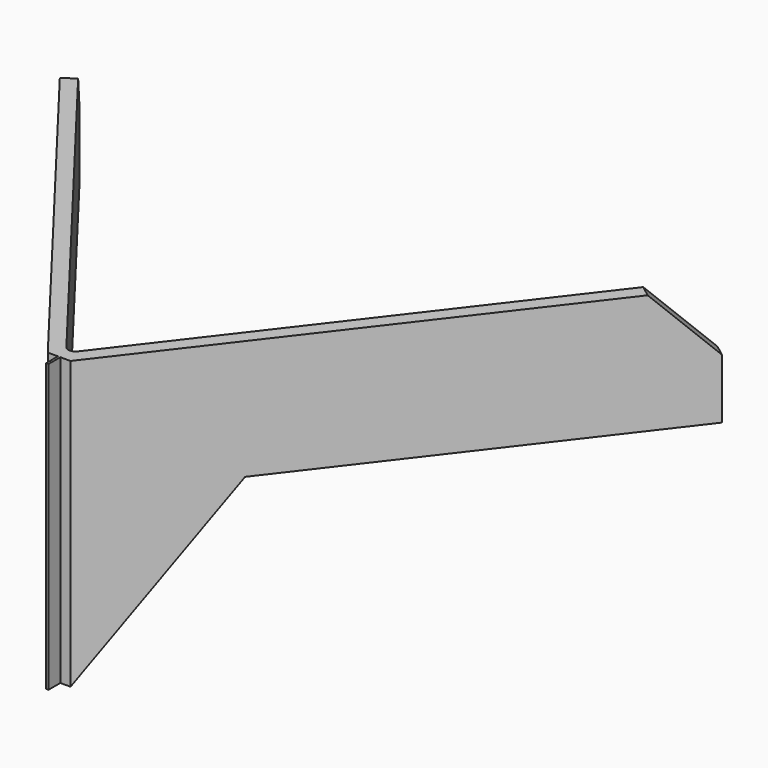
from build123d import *

# Parameters (mm, degrees)
F1_DEPTH      = 50
F1_DEPTH_BACK = 70
F2_SIZE       = 25
F4_DEPTH      = 25
F6_DEPTH      = 25
F7_W          = 9.5013230816
F7_H          = 6.2035092162
F8_DEPTH      = 150
F8_DEPTH_BACK = 150
F9_W          = 6.2035092162
F9_H          = 120
F10_DEPTH     = 0.5


with BuildPart() as f1:
    # F0 (on Top) → F1 (new body, two sides)
    with BuildSketch(Plane.XY) as f1_sk:
        with BuildLine():
            Line((-133.4287243432, 183.7437768202), (-138.188844385, 180.0912082461))
            Line((-138.188844385, 180.0912082461), (-4.7601200417, 6.2035092162))
            ThreePointArc((-4.7601200417, 6.2035092162), (0, 3.8560777902), (4.7601200417, 6.2035092162))
            Line((4.7601200417, 6.2035092162), (138.188844385, 180.0912082461))
            Line((138.188844385, 180.0912082461), (133.4287243432, 183.7437768202))
            Line((133.4287243432, 183.7437768202), (2.3800600209, 12.9578323983))
            ThreePointArc((2.3800600209, 12.9578323983), (0, 11.7841166853), (-2.3800600209, 12.9578323983))
            Line((-2.3800600209, 12.9578323983), (-133.4287243432, 183.7437768202))
        make_face()
    extrude(amount=F1_DEPTH)
    extrude(f1_sk.sketch, amount=-F1_DEPTH_BACK)

    # F2
    f2_edges = [f1.edges().sort_by_distance(p)[0] for p in [
        (-135.808784, 181.917493, 50),
        (135.808784, 181.917493, 50),
    ]]
    chamfer(f2_edges, length=F2_SIZE)

    # F3 (on face) → F4 (cut)
    with BuildSketch(Plane(origin=(0, 0, 0), x_dir=(0.608761429, -0.7933533403, 0), z_dir=(-0.7933533403, -0.608761429, 0))):
        Polygon((-66.5563264195, 0), (-227, 0), (-227, -70), (-7.819352237, -70), align=None)
    extrude(amount=-F4_DEPTH, mode=Mode.SUBTRACT)

    # F5 (on face) → F6 (cut)
    with BuildSketch(Plane(origin=(0, 0, 0), x_dir=(0.608761429, 0.7933533403, 0), z_dir=(0.7933533403, -0.608761429, 0))):
        Polygon((66.5563264195, 0), (7.819352237, -70), (227, -70), (227, 0), align=None)
    extrude(amount=-F6_DEPTH, mode=Mode.SUBTRACT)

    # F7 (on Top) → F8 (cut, two sides)
    with BuildSketch(Plane.XY) as f8_sk:
        with Locations((-0.0094585009, 3.1017546081)):
            Rectangle(F7_W, F7_H)
    extrude(amount=F8_DEPTH, mode=Mode.SUBTRACT)
    extrude(f8_sk.sketch, amount=-F8_DEPTH_BACK, mode=Mode.SUBTRACT)

    # F9 (on Right) → F10 (join, symmetric)
    with BuildSketch(Plane.YZ):
        with Locations((3.1017546081, -10)):
            Rectangle(F9_W, F9_H)
    extrude(amount=F10_DEPTH, both=True)


solid = f1.part
